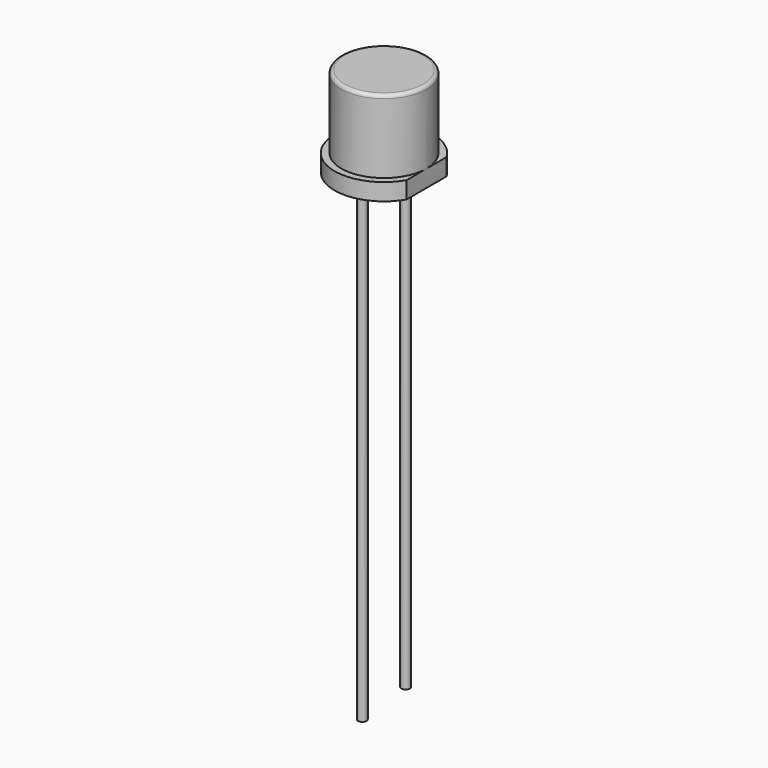
from build123d import *

# Parameters (mm, degrees)
F0_W      = 2.5
F0_H      = 4.3
F1_DEPTH  = 0.01
F4_W      = 3
F4_H      = 2.4
F5_DEPTH  = 2
F0_W_2    = 0.25
F0_H_2    = 26.2
F6_DEPTH  = 0.01
F7_DEPTH  = 0.01
F7_FACE_W = 0.25
F7_FACE_H = 28.7
F6_FACE_W = 0.25
F6_FACE_H = 26.2
F10_R     = 0.2


with BuildPart() as f1:
    # F0 (on Front) → F1 (new body)
    with BuildSketch(Plane.XZ):
        with Locations((1.25, 2.15)):
            Rectangle(F0_W, F0_H)
        Polygon((2.5, 0), (0, 0), (0, -1), (1.02, -1), (1.27, -1), (2.9, -1), (2.9, 0), align=None)
    extrude(amount=F1_DEPTH)

    # F1_face (on face) → F2 (revolve)
    with BuildSketch(Plane(origin=(1.2924908425, -0.01, 1.586996337), x_dir=(1, 0, 0), z_dir=(0, -1, 0))):
        Polygon((-1.2924908425, 2.713003663), (-1.2924908425, -2.586996337), (1.6075091575, -2.586996337), (1.6075091575, -1.586996337), (1.2075091575, -1.586996337), (1.2075091575, 2.713003663), align=None)
    revolve(axis=Axis((0, 0, 1.65), (0, 0, 1)))

    # F4 (on offset) → F5 (cut)
    with BuildSketch(Plane.YZ.offset(2.5)):
        Rectangle(F4_W, F4_H)
    extrude(amount=F5_DEPTH, mode=Mode.SUBTRACT)

    # F0 (on Front) → F6 (join)
    with BuildSketch(Plane.XZ):
        with Locations((1.145, -14.1)):
            Rectangle(F0_W_2, F0_H_2)
    extrude(amount=F6_DEPTH)

    # F0 (on Front) → F7 (join)
    with BuildSketch(Plane.XZ):
        Polygon((-1.02, -29.7), (-1.02, -27.2), (-1.02, -1), (-1.27, -1), (-1.27, -29.7), align=None)
    extrude(amount=F7_DEPTH)

    # F7_face (on face) → F8 (revolve)
    with BuildSketch(Plane(origin=(-1.145, -0.01, -15.35), x_dir=(1, 0, 0), z_dir=(0, -1, 0))):
        Rectangle(F7_FACE_W, F7_FACE_H)
    revolve(axis=Axis((-1.27, 0, -15.35), (0, 0, 1)))

    # F6_face (on face) → F9 (revolve)
    with BuildSketch(Plane(origin=(1.145, -0.01, -14.1), x_dir=(1, 0, 0), z_dir=(0, -1, 0))):
        Rectangle(F6_FACE_W, F6_FACE_H)
    revolve(axis=Axis((1.27, 0, -14.1), (0, 0, -1)))

    # F10
    f10_edges = [f1.edges().sort_by_distance(p)[0] for p in [
        (-2.5, 0.01, 4.3),
    ]]
    fillet(f10_edges, radius=F10_R)


solid = f1.part
